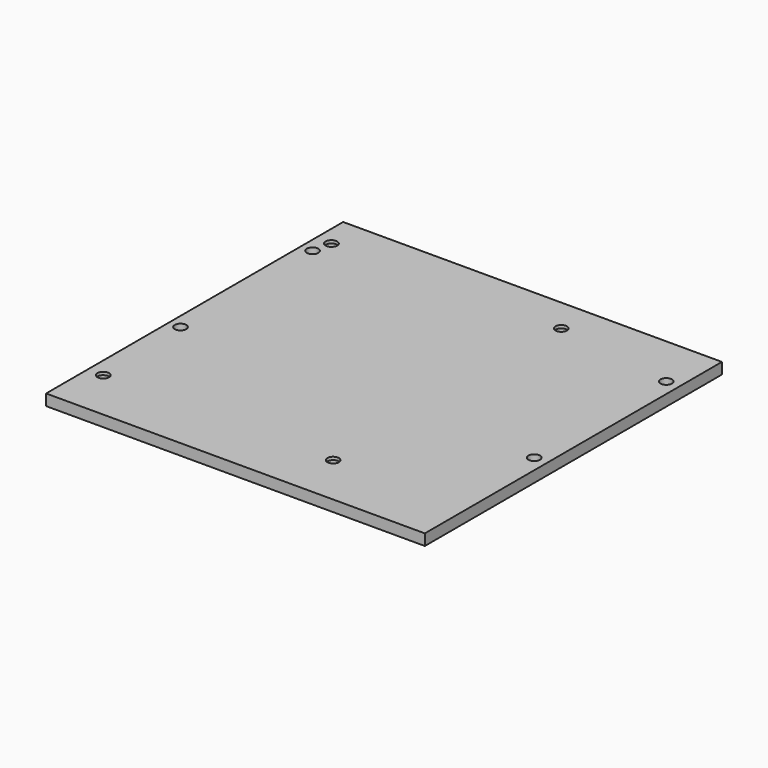
from build123d import *

# Parameters (mm, degrees)
F0_W     = 102
F0_H     = 3
F1_DEPTH = 50
F2_R     = 1.55
F3_DEPTH = 3
F4_R     = 2.8
F4_R_2   = 1.55
F5_DEPTH = 2.2


with BuildPart() as f1:
    # F0 (on Front) → F1 (new body, symmetric)
    with BuildSketch(Plane.XZ):
        with Locations((-0.412815, 0.432225)):
            Rectangle(F0_W, F0_H)
    extrude(amount=F1_DEPTH, both=True)

    # F2 (on face) → F3 (cut, through all)
    with BuildSketch(Plane.XY.offset(1.932225)):
        with Locations((-47.212815, 40.8)):
            Circle(F2_R)
        with Locations((14.687185, 40.8)):
            Circle(F2_R)
        with Locations((14.687185, -36)):
            Circle(F2_R)
        with Locations((-47.212815, -36)):
            Circle(F2_R)
        with Locations((-48.232815, 35.73)):
            Circle(F2_R)
        with Locations((-48.232815, -8.72)):
            Circle(F2_R)
        with Locations((47.017185, -8.72)):
            Circle(F2_R)
        with Locations((47.017185, 35.73)):
            Circle(F2_R)
    extrude(amount=-F3_DEPTH, mode=Mode.SUBTRACT)

    # F4 (on face) → F5 (cut)
    with BuildSketch(Plane(origin=(0, 0, -1.067775), x_dir=(1, 0, 0), z_dir=(0, 0, -1))):
        with Locations((-47.212815, 36)):
            Circle(F4_R)
        with Locations((-47.212815, 36)):
            Circle(F4_R_2, mode=Mode.SUBTRACT)
        with Locations((14.687185, 36)):
            Circle(F4_R)
        with Locations((14.687185, 36)):
            Circle(F4_R_2, mode=Mode.SUBTRACT)
        with Locations((-47.212815, -40.8)):
            Circle(F4_R)
        with Locations((-47.212815, -40.8)):
            Circle(F4_R_2, mode=Mode.SUBTRACT)
        with Locations((14.687185, -40.8)):
            Circle(F4_R)
        with Locations((14.687185, -40.8)):
            Circle(F4_R_2, mode=Mode.SUBTRACT)
    extrude(amount=-F5_DEPTH, mode=Mode.SUBTRACT)


solid = f1.part
